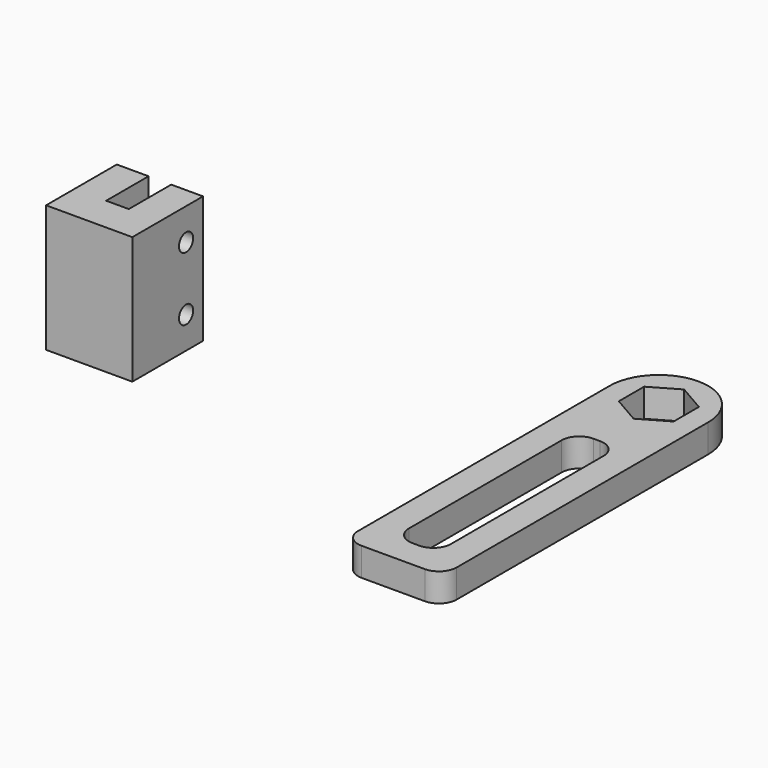
from build123d import *

# Parameters (mm, degrees)
F1_DEPTH = 36
F2_R     = 2.5
F3_DEPTH = 9.001
F6_DEPTH = 8


with BuildPart() as f1:
    # F0 (on Top) → F1 (new body)
    with BuildSketch(Plane.XY):
        Polygon((0, 10), (0, 0), (12.2, 0), (12.2, 25), (3.2, 25), (3.2, 10), align=None)
    extrude(amount=F1_DEPTH)

    # F2 (on face) → F3 (cut, through all)
    with BuildSketch(Plane(origin=(3.2, 0, 0), x_dir=(0, -1, 0), z_dir=(-1, 0, 0))):
        with Locations((-19, 27)):
            Circle(F2_R)
        with Locations((-19, 9)):
            Circle(F2_R)
    extrude(amount=-F3_DEPTH, mode=Mode.SUBTRACT)

    # F4: F1 across face


with BuildPart() as f1_1:
    add(f1.part)
    add(f1.part.mirror(Plane(origin=(0, 5, 18), x_dir=(0, -1, 0), z_dir=(-1, 0, 0))))


with BuildPart() as f6:
    # F5 (on Top) → F6 (new body)
    with BuildSketch(Plane.XY):
        with BuildLine():
            Line((133.259146, -36.647168), (133.259146, 52.301761))
            ThreePointArc((133.259146, 52.301761), (119.310217, 38.352832), (105.361288, 52.301761))
            Line((105.361288, 52.301761), (105.361288, -36.647168))
            ThreePointArc((105.361288, -36.647168), (106.825754, -40.182702), (110.361288, -41.647168))
            Line((110.361288, -41.647168), (128.259146, -41.647168))
            ThreePointArc((128.259146, -41.647168), (131.79468, -40.182702), (133.259146, -36.647168))
        make_face()
        with BuildLine():
            ThreePointArc((113.361288, 25.352832), (114.825754, 28.888366), (118.361288, 30.352832))
            Line((118.361288, 30.352832), (120.259146, 30.352832))
            ThreePointArc((120.259146, 30.352832), (123.79468, 28.888366), (125.259146, 25.352832))
            Line((125.259146, 25.352832), (125.259146, -28.647168))
            ThreePointArc((125.259146, -28.647168), (123.79468, -32.182702), (120.259146, -33.647168))
            Line((120.259146, -33.647168), (118.361288, -33.647168))
            ThreePointArc((118.361288, -33.647168), (114.825754, -32.182702), (113.361288, -28.647168))
            Line((113.361288, -28.647168), (113.361288, 25.352832))
        make_face(mode=Mode.SUBTRACT)
        with BuildLine():
            ThreePointArc((105.361288, 52.301761), (119.310217, 38.352832), (133.259146, 52.301761))
            ThreePointArc((133.259146, 52.301761), (119.310217, 66.250691), (105.361288, 52.301761))
        make_face()
        Polygon((127.060217, 56.776226), (127.060217, 47.827297), (119.310217, 43.352832), (111.560217, 47.827297), (111.560217, 56.776226), (119.310217, 61.250691), align=None, mode=Mode.SUBTRACT)
    extrude(amount=F6_DEPTH)


solid = Compound([f1_1.part, f6.part])
